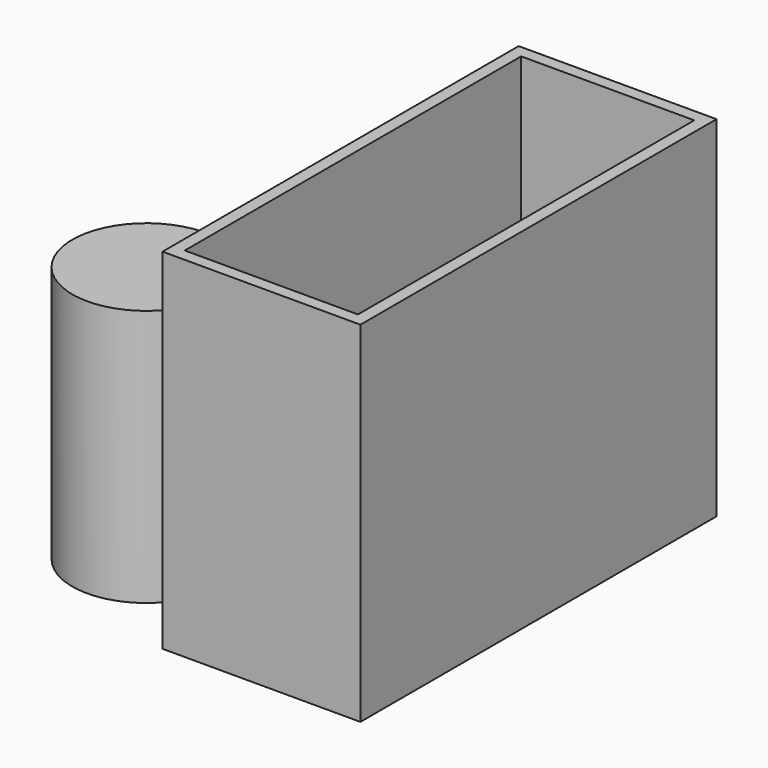
from build123d import *

# Parameters (mm, degrees)
F0_R     = 15
F1_DEPTH = 52
F2_W     = 40
F2_H     = 90
F3_DEPTH = 70.700936
F4_T     = -2.5


with BuildPart() as f1:
    # F0 (on Top) → F1 (new body)
    with BuildSketch(Plane.XY):
        Circle(F0_R)
        Circle(F0_R)
    extrude(amount=F1_DEPTH)


with BuildPart() as f3:
    # F2 (on Top) → F3 (new body)
    with BuildSketch(Plane.XY):
        with Locations((41.130134, 22.645339)):
            Rectangle(F2_W, F2_H)
    extrude(amount=F3_DEPTH)

    # F4
    f4_openings = [f3.faces().sort_by_distance(p)[0] for p in [
        (41.130134, 22.645339, 70.700936),
    ]]
    offset(amount=F4_T, openings=f4_openings)


solid = Compound([f1.part, f3.part])
